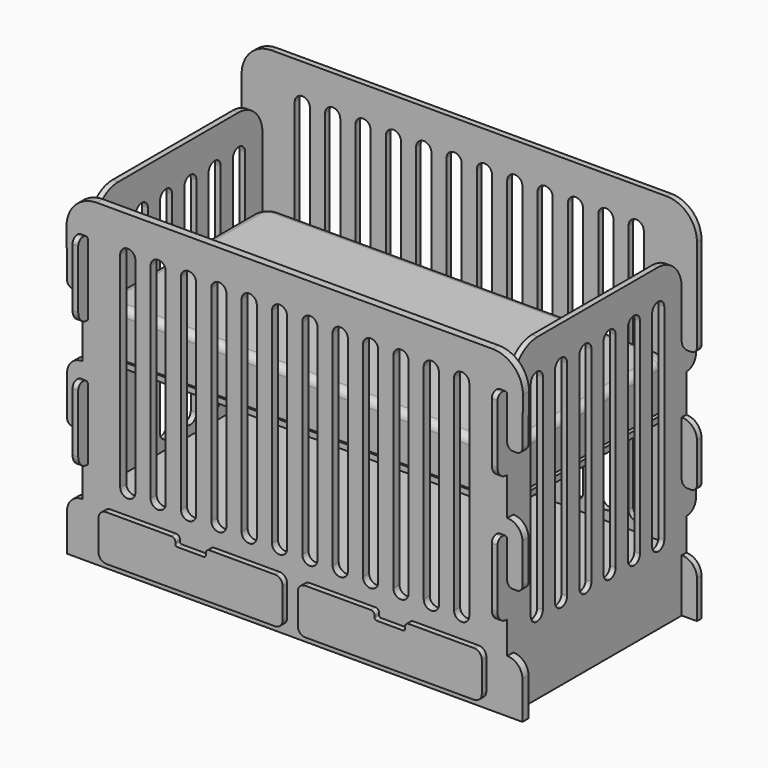
from build123d import *

# Parameters (mm, degrees)
F1_DEPTH  = 19.05
F3_DEPTH  = 19.051
F5_DEPTH  = 19.051
F7_DEPTH  = 19.05
F10_DEPTH = 25.4
F12_DEPTH = 152.4
F14_DEPTH = 19.05
F17_DEPTH = 1475.032477
F18_W     = 1422.4
F18_H     = 19.05
F19_DEPTH = 749.3
F20_W     = 1384.3
F20_H     = 19.05
F21_DEPTH = 704.85
F23_DEPTH = 25.4
F25_DEPTH = 152.4
F26_R     = 25.4
F28_DEPTH = 19.05


with BuildPart() as f1:
    # F0 (on Front) → F1 (new body)
    with BuildSketch(Plane.XZ):
        with BuildLine():
            Line((660.4, 304.8), (-660.4, 304.8))
            ThreePointArc((-660.4, 304.8), (-732.242049, 275.042049), (-762, 203.2))
            Line((-762, 203.2), (-762, -914.4))
            Line((-762, -914.4), (762, -914.4))
            Line((762, -914.4), (762, 203.2))
            ThreePointArc((762, 203.2), (732.242049, 275.042049), (660.4, 304.8))
        make_face()
    extrude(amount=F1_DEPTH)

    # F2 (on face) → F3 (cut, through all)
    with BuildSketch(Plane.XZ.offset(19.05)):
        with BuildLine():
            Line((-730.25, -127), (-742.95, -127))
            ThreePointArc((-742.95, -127), (-756.420384, -121.420384), (-762, -107.95))
            Line((-762, -107.95), (-762, -50.8))
            Line((-762, -50.8), (-838.2, -50.8))
            Line((-838.2, -50.8), (-838.2, -431.8))
            Line((-838.2, -431.8), (-762, -431.8))
            Line((-762, -431.8), (-762, -381))
            ThreePointArc((-762, -381), (-747.121024, -345.078976), (-711.2, -330.2))
            Line((-711.2, -330.2), (-692.15, -330.2))
            Line((-692.15, -330.2), (-692.15, -50.8))
            Line((-692.15, -50.8), (-711.2, -50.8))
            Line((-711.2, -50.8), (-711.2, -107.95))
            ThreePointArc((-711.2, -107.95), (-716.779616, -121.420384), (-730.25, -127))
        make_face()
        with BuildLine():
            Line((-711.2, -457.2), (-711.2, -514.35))
            ThreePointArc((-711.2, -514.35), (-716.779616, -527.820384), (-730.25, -533.4))
            Line((-730.25, -533.4), (-742.95, -533.4))
            ThreePointArc((-742.95, -533.4), (-756.420384, -527.820384), (-762, -514.35))
            Line((-762, -514.35), (-762, -457.2))
            Line((-762, -457.2), (-838.2, -457.2))
            Line((-838.2, -457.2), (-838.2, -838.2))
            Line((-838.2, -838.2), (-762, -838.2))
            Line((-762, -838.2), (-762, -787.4))
            ThreePointArc((-762, -787.4), (-747.121024, -751.478976), (-711.2, -736.6))
            Line((-711.2, -736.6), (-692.15, -736.6))
            Line((-692.15, -736.6), (-692.15, -457.2))
            Line((-692.15, -457.2), (-711.2, -457.2))
        make_face()
        with BuildLine():
            ThreePointArc((762, -107.95), (756.420384, -121.420384), (742.95, -127))
            Line((742.95, -127), (730.25, -127))
            ThreePointArc((730.25, -127), (716.779616, -121.420384), (711.2, -107.95))
            Line((711.2, -107.95), (711.2, -50.8))
            Line((711.2, -50.8), (692.15, -50.8))
            Line((692.15, -50.8), (692.15, -330.2))
            Line((692.15, -330.2), (711.2, -330.2))
            ThreePointArc((711.2, -330.2), (747.121024, -345.078976), (762, -381))
            Line((762, -381), (762, -431.8))
            Line((762, -431.8), (838.2, -431.8))
            Line((838.2, -431.8), (838.2, -50.8))
            Line((838.2, -50.8), (762, -50.8))
            Line((762, -50.8), (762, -107.95))
        make_face()
        with BuildLine():
            Line((692.15, -457.2), (692.15, -736.6))
            Line((692.15, -736.6), (711.2, -736.6))
            ThreePointArc((711.2, -736.6), (747.121024, -751.478976), (762, -787.4))
            Line((762, -787.4), (762, -838.2))
            Line((762, -838.2), (838.2, -838.2))
            Line((838.2, -838.2), (838.2, -457.2))
            Line((838.2, -457.2), (762, -457.2))
            Line((762, -457.2), (762, -514.35))
            ThreePointArc((762, -514.35), (756.420384, -527.820384), (742.95, -533.4))
            Line((742.95, -533.4), (730.25, -533.4))
            ThreePointArc((730.25, -533.4), (716.779616, -527.820384), (711.2, -514.35))
            Line((711.2, -514.35), (711.2, -457.2))
            Line((711.2, -457.2), (692.15, -457.2))
        make_face()
    extrude(amount=-F3_DEPTH, mode=Mode.SUBTRACT)

    # F4 (on face) → F5 (cut, through all)
    with BuildSketch(Plane.XZ.offset(19.05)):
        with BuildLine():
            ThreePointArc((-50.8, 203.2), (-68.760512, 195.760512), (-76.2, 177.8))
            Line((-76.2, 177.8), (-76.2, -660.4))
            ThreePointArc((-76.2, -660.4), (-68.760512, -678.360512), (-50.8, -685.8))
            ThreePointArc((-50.8, -685.8), (-32.839488, -678.360512), (-25.4, -660.4))
            Line((-25.4, -660.4), (-25.4, 177.8))
            ThreePointArc((-25.4, 177.8), (-32.839488, 195.760512), (-50.8, 203.2))
        make_face()
        with BuildLine():
            ThreePointArc((-152.4, 203.2), (-170.360512, 195.760512), (-177.8, 177.8))
            Line((-177.8, 177.8), (-177.8, -660.4))
            ThreePointArc((-177.8, -660.4), (-170.360512, -678.360512), (-152.4, -685.8))
            ThreePointArc((-152.4, -685.8), (-134.439488, -678.360512), (-127, -660.4))
            Line((-127, -660.4), (-127, 177.8))
            ThreePointArc((-127, 177.8), (-134.439488, 195.760512), (-152.4, 203.2))
        make_face()
        with BuildLine():
            ThreePointArc((-254, 203.2), (-271.960512, 195.760512), (-279.4, 177.8))
            Line((-279.4, 177.8), (-279.4, -660.4))
            ThreePointArc((-279.4, -660.4), (-271.960512, -678.360512), (-254, -685.8))
            ThreePointArc((-254, -685.8), (-236.039488, -678.360512), (-228.6, -660.4))
            Line((-228.6, -660.4), (-228.6, 177.8))
            ThreePointArc((-228.6, 177.8), (-236.039488, 195.760512), (-254, 203.2))
        make_face()
        with BuildLine():
            ThreePointArc((-355.6, 203.2), (-373.560512, 195.760512), (-381, 177.8))
            Line((-381, 177.8), (-381, -660.4))
            ThreePointArc((-381, -660.4), (-373.560512, -678.360512), (-355.6, -685.8))
            ThreePointArc((-355.6, -685.8), (-337.639488, -678.360512), (-330.2, -660.4))
            Line((-330.2, -660.4), (-330.2, 177.8))
            ThreePointArc((-330.2, 177.8), (-337.639488, 195.760512), (-355.6, 203.2))
        make_face()
        with BuildLine():
            ThreePointArc((-457.2, 203.2), (-475.160512, 195.760512), (-482.6, 177.8))
            Line((-482.6, 177.8), (-482.6, -660.4))
            ThreePointArc((-482.6, -660.4), (-475.160512, -678.360512), (-457.2, -685.8))
            ThreePointArc((-457.2, -685.8), (-439.239488, -678.360512), (-431.8, -660.4))
            Line((-431.8, -660.4), (-431.8, 177.8))
            ThreePointArc((-431.8, 177.8), (-439.239488, 195.760512), (-457.2, 203.2))
        make_face()
        with BuildLine():
            ThreePointArc((-558.8, 203.2), (-576.760512, 195.760512), (-584.2, 177.8))
            Line((-584.2, 177.8), (-584.2, -660.4))
            ThreePointArc((-584.2, -660.4), (-576.760512, -678.360512), (-558.8, -685.8))
            ThreePointArc((-558.8, -685.8), (-540.839488, -678.360512), (-533.4, -660.4))
            Line((-533.4, -660.4), (-533.4, 177.8))
            ThreePointArc((-533.4, 177.8), (-540.839488, 195.760512), (-558.8, 203.2))
        make_face()
        with BuildLine():
            ThreePointArc((127, -660.4), (134.439488, -678.360512), (152.4, -685.8))
            ThreePointArc((152.4, -685.8), (170.360512, -678.360512), (177.8, -660.4))
            Line((177.8, -660.4), (177.8, 177.8))
            ThreePointArc((177.8, 177.8), (170.360512, 195.760512), (152.4, 203.2))
            ThreePointArc((152.4, 203.2), (134.439488, 195.760512), (127, 177.8))
            Line((127, 177.8), (127, -660.4))
        make_face()
        with BuildLine():
            ThreePointArc((482.6, 177.8), (475.160512, 195.760512), (457.2, 203.2))
            ThreePointArc((457.2, 203.2), (439.239488, 195.760512), (431.8, 177.8))
            Line((431.8, 177.8), (431.8, -660.4))
            ThreePointArc((431.8, -660.4), (439.239488, -678.360512), (457.2, -685.8))
            ThreePointArc((457.2, -685.8), (475.160512, -678.360512), (482.6, -660.4))
            Line((482.6, -660.4), (482.6, 177.8))
        make_face()
        with BuildLine():
            ThreePointArc((254, -685.8), (271.960512, -678.360512), (279.4, -660.4))
            Line((279.4, -660.4), (279.4, 177.8))
            ThreePointArc((279.4, 177.8), (271.960512, 195.760512), (254, 203.2))
            ThreePointArc((254, 203.2), (236.039488, 195.760512), (228.6, 177.8))
            Line((228.6, 177.8), (228.6, -660.4))
            ThreePointArc((228.6, -660.4), (236.039488, -678.360512), (254, -685.8))
        make_face()
        with BuildLine():
            ThreePointArc((558.8, 203.2), (540.839488, 195.760512), (533.4, 177.8))
            Line((533.4, 177.8), (533.4, -660.4))
            ThreePointArc((533.4, -660.4), (540.839488, -678.360512), (558.8, -685.8))
            ThreePointArc((558.8, -685.8), (576.760512, -678.360512), (584.2, -660.4))
            Line((584.2, -660.4), (584.2, 177.8))
            ThreePointArc((584.2, 177.8), (576.760512, 195.760512), (558.8, 203.2))
        make_face()
        with BuildLine():
            ThreePointArc((355.6, 203.2), (337.639488, 195.760512), (330.2, 177.8))
            Line((330.2, 177.8), (330.2, -660.4))
            ThreePointArc((330.2, -660.4), (337.639488, -678.360512), (355.6, -685.8))
            ThreePointArc((355.6, -685.8), (373.560512, -678.360512), (381, -660.4))
            Line((381, -660.4), (381, 177.8))
            ThreePointArc((381, 177.8), (373.560512, 195.760512), (355.6, 203.2))
        make_face()
        with BuildLine():
            ThreePointArc((25.4, -660.4), (32.839488, -678.360512), (50.8, -685.8))
            ThreePointArc((50.8, -685.8), (68.760512, -678.360512), (76.2, -660.4))
            Line((76.2, -660.4), (76.2, 177.8))
            ThreePointArc((76.2, 177.8), (68.760512, 195.760512), (50.8, 203.2))
            ThreePointArc((50.8, 203.2), (32.839488, 195.760512), (25.4, 177.8))
            Line((25.4, 177.8), (25.4, -660.4))
        make_face()
    extrude(amount=-F5_DEPTH, mode=Mode.SUBTRACT)

    # F6 (on face) → F7 (join)
    with BuildSketch(Plane(origin=(-692.15, 0, 0), x_dir=(0, -1, 0), z_dir=(-1, 0, 0))):
        with BuildLine():
            Line((0, -628.890028), (0, -914.4))
            Line((0, -914.4), (749.3, -914.4))
            Line((749.3, -914.4), (749.3, -628.890028))
            Line((749.3, -628.890028), (751.84, -628.890028))
            ThreePointArc((751.84, -628.890028), (778.780768, -617.730797), (789.94, -590.790028))
            Line((789.94, -590.790028), (789.94, -393.940028))
            ThreePointArc((789.94, -393.940028), (784.360384, -380.469644), (770.89, -374.890028))
            Line((770.89, -374.890028), (768.35, -374.890028))
            ThreePointArc((768.35, -374.890028), (754.879616, -380.469644), (749.3, -393.940028))
            Line((749.3, -393.940028), (749.3, -203.2))
            Line((749.3, -203.2), (751.84, -203.2))
            ThreePointArc((751.84, -203.2), (778.780768, -192.040768), (789.94, -165.1))
            Line((789.94, -165.1), (789.94, 31.75))
            ThreePointArc((789.94, 31.75), (784.360384, 45.220384), (770.89, 50.8))
            Line((770.89, 50.8), (768.35, 50.8))
            ThreePointArc((768.35, 50.8), (754.879616, 45.220384), (749.3, 31.75))
            Line((749.3, 31.75), (749.3, 0))
            Line((749.3, 0), (0, 0))
            Line((0, 0), (0, 31.75))
            ThreePointArc((0, 31.75), (-5.579616, 45.220384), (-19.05, 50.8))
            Line((-19.05, 50.8), (-21.59, 50.8))
            ThreePointArc((-21.59, 50.8), (-35.060384, 45.220384), (-40.64, 31.75))
            Line((-40.64, 31.75), (-40.64, -165.1))
            ThreePointArc((-40.64, -165.1), (-29.480768, -192.040768), (-2.54, -203.2))
            Line((-2.54, -203.2), (0, -203.2))
            Line((0, -203.2), (0, -393.940028))
            ThreePointArc((0, -393.940028), (-5.579616, -380.469644), (-19.05, -374.890028))
            Line((-19.05, -374.890028), (-21.59, -374.890028))
            ThreePointArc((-21.59, -374.890028), (-35.060384, -380.469644), (-40.64, -393.940028))
            Line((-40.64, -393.940028), (-40.64, -590.790028))
            ThreePointArc((-40.64, -590.790028), (-29.480768, -617.730797), (-2.54, -628.890028))
            Line((-2.54, -628.890028), (0, -628.890028))
        make_face()
    extrude(amount=F7_DEPTH)

    # F8: F1 across plane


with BuildPart() as f1_1:
    add(f1.part)
    add(f1.part.mirror(Plane.YZ))

    # F9 (on face) → F10 (join)
    with BuildSketch(Plane.XZ.offset(749.3)):
        with BuildLine():
            Line((-742.95, -127), (-730.25, -127))
            ThreePointArc((-730.25, -127), (-716.779616, -121.420384), (-711.2, -107.95))
            Line((-711.2, -107.95), (-711.2, -330.2))
            ThreePointArc((-711.2, -330.2), (-747.121024, -345.078976), (-762, -381))
            Line((-762, -381), (-762, -514.35))
            ThreePointArc((-762, -514.35), (-756.420384, -527.820384), (-742.95, -533.4))
            Line((-742.95, -533.4), (-730.25, -533.4))
            ThreePointArc((-730.25, -533.4), (-716.779616, -527.820384), (-711.2, -514.35))
            Line((-711.2, -514.35), (-711.2, -736.6))
            ThreePointArc((-711.2, -736.6), (-747.121024, -751.478976), (-762, -787.4))
            Line((-762, -787.4), (-762, -914.4))
            Line((-762, -914.4), (-711.2, -914.4))
            Line((-711.2, -914.4), (-692.15, -914.4))
            Line((-692.15, -914.4), (692.15, -914.4))
            Line((692.15, -914.4), (711.2, -914.4))
            Line((711.2, -914.4), (762, -914.4))
            Line((762, -914.4), (762, -787.4))
            ThreePointArc((762, -787.4), (747.121024, -751.478976), (711.2, -736.6))
            Line((711.2, -736.6), (711.2, -514.35))
            ThreePointArc((711.2, -514.35), (716.779616, -527.820384), (730.25, -533.4))
            Line((730.25, -533.4), (742.95, -533.4))
            ThreePointArc((742.95, -533.4), (756.420384, -527.820384), (762, -514.35))
            Line((762, -514.35), (762, -381))
            ThreePointArc((762, -381), (747.121024, -345.078976), (711.2, -330.2))
            Line((711.2, -330.2), (711.2, -107.95))
            ThreePointArc((711.2, -107.95), (716.779616, -121.420384), (730.25, -127))
            Line((730.25, -127), (742.95, -127))
            ThreePointArc((742.95, -127), (756.420384, -121.420384), (762, -107.95))
            Line((762, -107.95), (763.824665, 49.623574))
            ThreePointArc((763.824665, 49.623574), (734.488258, 122.224909), (662.231477, 152.4))
            Line((662.231477, 152.4), (-660.4, 152.4))
            ThreePointArc((-660.4, 152.4), (-732.242049, 122.642049), (-762, 50.8))
            Line((-762, 50.8), (-762, -107.95))
            ThreePointArc((-762, -107.95), (-756.420384, -121.420384), (-742.95, -127))
        make_face()
    extrude(amount=-F10_DEPTH)

    # F11 (on face) → F12 (cut)
    with BuildSketch(Plane.XZ.offset(749.3)):
        with BuildLine():
            ThreePointArc((-558.8, 50.8), (-576.760512, 43.360512), (-584.2, 25.4))
            Line((-584.2, 25.4), (-584.2, -660.4))
            ThreePointArc((-584.2, -660.4), (-558.8, -685.8), (-533.4, -660.4))
            Line((-533.4, -660.4), (-533.4, 25.4))
            ThreePointArc((-533.4, 25.4), (-540.839488, 43.360512), (-558.8, 50.8))
        make_face()
        with BuildLine():
            Line((-431.8, -660.4), (-431.8, 25.4))
            ThreePointArc((-431.8, 25.4), (-439.239488, 43.360512), (-457.2, 50.8))
            ThreePointArc((-457.2, 50.8), (-475.160512, 43.360512), (-482.6, 25.4))
            Line((-482.6, 25.4), (-482.6, -660.4))
            ThreePointArc((-482.6, -660.4), (-457.2, -685.8), (-431.8, -660.4))
        make_face()
        with BuildLine():
            Line((-330.2, -660.4), (-330.2, 25.4))
            ThreePointArc((-330.2, 25.4), (-337.639488, 43.360512), (-355.6, 50.8))
            ThreePointArc((-355.6, 50.8), (-373.560512, 43.360512), (-381, 25.4))
            Line((-381, 25.4), (-381, -660.4))
            ThreePointArc((-381, -660.4), (-355.6, -685.8), (-330.2, -660.4))
        make_face()
        with BuildLine():
            Line((-228.6, -660.4), (-228.6, 25.4))
            ThreePointArc((-228.6, 25.4), (-236.039488, 43.360512), (-254, 50.8))
            ThreePointArc((-254, 50.8), (-271.960512, 43.360512), (-279.4, 25.4))
            Line((-279.4, 25.4), (-279.4, -660.4))
            ThreePointArc((-279.4, -660.4), (-254, -685.8), (-228.6, -660.4))
        make_face()
        with BuildLine():
            Line((-127, -660.4), (-127, 25.4))
            ThreePointArc((-127, 25.4), (-134.439488, 43.360512), (-152.4, 50.8))
            ThreePointArc((-152.4, 50.8), (-170.360512, 43.360512), (-177.8, 25.4))
            Line((-177.8, 25.4), (-177.8, -660.4))
            ThreePointArc((-177.8, -660.4), (-152.4, -685.8), (-127, -660.4))
        make_face()
        with BuildLine():
            Line((-25.4, -660.4), (-25.4, 25.4))
            ThreePointArc((-25.4, 25.4), (-32.839488, 43.360512), (-50.8, 50.8))
            ThreePointArc((-50.8, 50.8), (-68.760512, 43.360512), (-76.2, 25.4))
            Line((-76.2, 25.4), (-76.2, -660.4))
            ThreePointArc((-76.2, -660.4), (-50.8, -685.8), (-25.4, -660.4))
        make_face()
        with BuildLine():
            Line((76.2, -660.4), (76.2, 25.4))
            ThreePointArc((76.2, 25.4), (68.760512, 43.360512), (50.8, 50.8))
            ThreePointArc((50.8, 50.8), (32.839488, 43.360512), (25.4, 25.4))
            Line((25.4, 25.4), (25.4, -660.4))
            ThreePointArc((25.4, -660.4), (50.8, -685.8), (76.2, -660.4))
        make_face()
        with BuildLine():
            Line((177.8, -660.4), (177.8, 25.4))
            ThreePointArc((177.8, 25.4), (170.360512, 43.360512), (152.4, 50.8))
            ThreePointArc((152.4, 50.8), (134.439488, 43.360512), (127, 25.4))
            Line((127, 25.4), (127, -660.4))
            ThreePointArc((127, -660.4), (152.4, -685.8), (177.8, -660.4))
        make_face()
        with BuildLine():
            Line((279.4, -660.4), (279.4, 25.4))
            ThreePointArc((279.4, 25.4), (271.960512, 43.360512), (254, 50.8))
            ThreePointArc((254, 50.8), (236.039488, 43.360512), (228.6, 25.4))
            Line((228.6, 25.4), (228.6, -660.4))
            ThreePointArc((228.6, -660.4), (254, -685.8), (279.4, -660.4))
        make_face()
        with BuildLine():
            Line((381, -660.4), (381, 25.4))
            ThreePointArc((381, 25.4), (373.560512, 43.360512), (355.6, 50.8))
            ThreePointArc((355.6, 50.8), (337.639488, 43.360512), (330.2, 25.4))
            Line((330.2, 25.4), (330.2, -660.4))
            ThreePointArc((330.2, -660.4), (355.6, -685.8), (381, -660.4))
        make_face()
        with BuildLine():
            Line((482.6, -660.4), (482.6, 25.4))
            ThreePointArc((482.6, 25.4), (475.160512, 43.360512), (457.2, 50.8))
            ThreePointArc((457.2, 50.8), (439.239488, 43.360512), (431.8, 25.4))
            Line((431.8, 25.4), (431.8, -660.4))
            ThreePointArc((431.8, -660.4), (457.2, -685.8), (482.6, -660.4))
        make_face()
        with BuildLine():
            Line((584.2, -660.4), (584.2, 25.4))
            ThreePointArc((584.2, 25.4), (576.760512, 43.360512), (558.8, 50.8))
            ThreePointArc((558.8, 50.8), (540.839488, 43.360512), (533.4, 25.4))
            Line((533.4, 25.4), (533.4, -660.4))
            ThreePointArc((533.4, -660.4), (558.8, -685.8), (584.2, -660.4))
        make_face()
    extrude(amount=-F12_DEPTH, mode=Mode.SUBTRACT)

    # F13 (on face) → F14 (join, through all)
    with BuildSketch(Plane(origin=(-711.2, 0, 0), x_dir=(0, -1, 0), z_dir=(-1, 0, 0))):
        with BuildLine():
            Line((19.05, 50.8), (19.05, 0))
            Line((19.05, 0), (723.9, 0))
            Line((723.9, 0), (723.9, 50.8))
            ThreePointArc((723.9, 50.8), (694.142049, 122.642049), (622.3, 152.4))
            Line((622.3, 152.4), (120.65, 152.4))
            ThreePointArc((120.65, 152.4), (48.807951, 122.642049), (19.05, 50.8))
        make_face()
    extrude(amount=-F14_DEPTH)

    # F15: F1 across plane


with BuildPart() as f1_2:
    add(f1_1.part)
    add(f1_1.part.mirror(Plane.YZ))

    # F16 (on face) → F17 (cut, through all)
    with BuildSketch(Plane(origin=(-711.2, 0, 0), x_dir=(0, -1, 0), z_dir=(-1, 0, 0))):
        with BuildLine():
            Line((346.075, -660.4), (346.075, 25.4))
            ThreePointArc((346.075, 25.4), (338.635512, 43.360512), (320.675, 50.8))
            ThreePointArc((320.675, 50.8), (302.714488, 43.360512), (295.275, 25.4))
            Line((295.275, 25.4), (295.275, -660.4))
            ThreePointArc((295.275, -660.4), (302.714488, -678.360512), (320.675, -685.8))
            ThreePointArc((320.675, -685.8), (338.635512, -678.360512), (346.075, -660.4))
        make_face()
        with BuildLine():
            ThreePointArc((219.075, 50.8), (201.114488, 43.360512), (193.675, 25.4))
            Line((193.675, 25.4), (193.675, -660.4))
            ThreePointArc((193.675, -660.4), (201.114488, -678.360512), (219.075, -685.8))
            ThreePointArc((219.075, -685.8), (237.035512, -678.360512), (244.475, -660.4))
            Line((244.475, -660.4), (244.475, 25.4))
            ThreePointArc((244.475, 25.4), (237.035512, 43.360512), (219.075, 50.8))
        make_face()
        with BuildLine():
            ThreePointArc((117.475, 50.8), (99.514488, 43.360512), (92.075, 25.4))
            Line((92.075, 25.4), (92.075, -660.4))
            ThreePointArc((92.075, -660.4), (99.514488, -678.360512), (117.475, -685.8))
            ThreePointArc((117.475, -685.8), (135.435512, -678.360512), (142.875, -660.4))
            Line((142.875, -660.4), (142.875, 25.4))
            ThreePointArc((142.875, 25.4), (135.435512, 43.360512), (117.475, 50.8))
        make_face()
        with BuildLine():
            ThreePointArc((625.475, 50.8), (607.514488, 43.360512), (600.075, 25.4))
            Line((600.075, 25.4), (600.075, -660.4))
            ThreePointArc((600.075, -660.4), (607.514488, -678.360512), (625.475, -685.8))
            ThreePointArc((625.475, -685.8), (643.435512, -678.360512), (650.875, -660.4))
            Line((650.875, -660.4), (650.875, 25.4))
            ThreePointArc((650.875, 25.4), (643.435512, 43.360512), (625.475, 50.8))
        make_face()
        with BuildLine():
            ThreePointArc((422.275, 50.8), (404.314488, 43.360512), (396.875, 25.4))
            Line((396.875, 25.4), (396.875, -660.4))
            ThreePointArc((396.875, -660.4), (404.314488, -678.360512), (422.275, -685.8))
            ThreePointArc((422.275, -685.8), (440.235512, -678.360512), (447.675, -660.4))
            Line((447.675, -660.4), (447.675, 25.4))
            ThreePointArc((447.675, 25.4), (440.235512, 43.360512), (422.275, 50.8))
        make_face()
        with BuildLine():
            ThreePointArc((549.275, 25.4), (541.835512, 43.360512), (523.875, 50.8))
            ThreePointArc((523.875, 50.8), (505.914488, 43.360512), (498.475, 25.4))
            Line((498.475, 25.4), (498.475, -660.4))
            ThreePointArc((498.475, -660.4), (505.914488, -678.360512), (523.875, -685.8))
            ThreePointArc((523.875, -685.8), (541.835512, -678.360512), (549.275, -660.4))
            Line((549.275, -660.4), (549.275, 25.4))
        make_face()
    extrude(amount=-F17_DEPTH, mode=Mode.SUBTRACT)

    # F18 (on face) → F19 (join, through all)
    with BuildSketch(Plane.XZ.offset(749.3)):
        with Locations((0, -727.075)):
            Rectangle(F18_W, F18_H)
    extrude(amount=-F19_DEPTH)

    # F20 (on face) → F21 (join, through all)
    with BuildSketch(Plane(origin=(0, -723.9, 0), x_dir=(-1, 0, 0), z_dir=(0, 1, 0))):
        with Locations((0, -314.325)):
            Rectangle(F20_W, F20_H)
    extrude(amount=F21_DEPTH)

    # F22 (on face) → F23 (cut)
    with BuildSketch(Plane.XY.offset(-304.8)):
        with BuildLine():
            Line((-127, -371.475), (127, -371.475))
            ThreePointArc((127, -371.475), (144.960512, -364.035512), (152.4, -346.075))
            ThreePointArc((152.4, -346.075), (144.960512, -328.114488), (127, -320.675))
            Line((127, -320.675), (-127, -320.675))
            ThreePointArc((-127, -320.675), (-144.960512, -328.114488), (-152.4, -346.075))
            ThreePointArc((-152.4, -346.075), (-144.960512, -364.035512), (-127, -371.475))
        make_face()
    extrude(amount=-F23_DEPTH, mode=Mode.SUBTRACT)

    # F27 (on face) → F28 (join)
    with BuildSketch(Plane.XZ.offset(749.3)):
        with BuildLine():
            Line((-615.95, -889), (-50.8, -889))
            ThreePointArc((-50.8, -889), (-32.839488, -881.560512), (-25.4, -863.6))
            Line((-25.4, -863.6), (-25.4, -762))
            ThreePointArc((-25.4, -762), (-32.839488, -744.039488), (-50.8, -736.6))
            Line((-50.8, -736.6), (-269.875, -736.6))
            ThreePointArc((-269.875, -736.6), (-278.855256, -740.319744), (-282.575, -749.3))
            Line((-282.575, -749.3), (-282.575, -755.65))
            ThreePointArc((-282.575, -755.65), (-284.434872, -760.140128), (-288.925, -762))
            Line((-288.925, -762), (-377.825, -762))
            ThreePointArc((-377.825, -762), (-382.315128, -760.140128), (-384.175, -755.65))
            Line((-384.175, -755.65), (-384.175, -749.3))
            ThreePointArc((-384.175, -749.3), (-387.894744, -740.319744), (-396.875, -736.6))
            Line((-396.875, -736.6), (-615.95, -736.6))
            ThreePointArc((-615.95, -736.6), (-633.910512, -744.039488), (-641.35, -762))
            Line((-641.35, -762), (-641.35, -863.6))
            ThreePointArc((-641.35, -863.6), (-633.910512, -881.560512), (-615.95, -889))
        make_face()
        with BuildLine():
            ThreePointArc((396.875, -736.6), (387.894744, -740.319744), (384.175, -749.3))
            Line((384.175, -749.3), (384.175, -755.65))
            ThreePointArc((384.175, -755.65), (382.315128, -760.140128), (377.825, -762))
            Line((377.825, -762), (288.925, -762))
            ThreePointArc((288.925, -762), (284.434872, -760.140128), (282.575, -755.65))
            Line((282.575, -755.65), (282.575, -749.3))
            ThreePointArc((282.575, -749.3), (278.855256, -740.319744), (269.875, -736.6))
            Line((269.875, -736.6), (50.8, -736.6))
            ThreePointArc((50.8, -736.6), (32.839488, -744.039488), (25.4, -762))
            Line((25.4, -762), (25.4, -863.6))
            ThreePointArc((25.4, -863.6), (32.839488, -881.560512), (50.8, -889))
            Line((50.8, -889), (615.95, -889))
            ThreePointArc((615.95, -889), (633.910512, -881.560512), (641.35, -863.6))
            Line((641.35, -863.6), (641.35, -762))
            ThreePointArc((641.35, -762), (633.910512, -744.039488), (615.95, -736.6))
            Line((615.95, -736.6), (396.875, -736.6))
        make_face()
    extrude(amount=F28_DEPTH)


with BuildPart() as f25:
    # F24 (on face) → F25 (new body)
    with BuildSketch(Plane.XY.offset(-304.8)):
        with BuildLine():
            Line((-628.878829, -717.55), (628.878829, -717.55))
            ThreePointArc((628.878829, -717.55), (664.799853, -702.671024), (679.678829, -666.75))
            Line((679.678829, -666.75), (679.678829, -76.2))
            ThreePointArc((679.678829, -76.2), (664.799853, -40.278976), (628.878829, -25.4))
            Line((628.878829, -25.4), (-628.878829, -25.4))
            ThreePointArc((-628.878829, -25.4), (-664.799853, -40.278976), (-679.678829, -76.2))
            Line((-679.678829, -76.2), (-679.678829, -666.75))
            ThreePointArc((-679.678829, -666.75), (-664.799853, -702.671024), (-628.878829, -717.55))
        make_face()
    extrude(amount=F25_DEPTH)

    # F26
    f26_edges = [f25.edges().sort_by_distance(p)[0] for p in [
        (0, -25.4, -152.4),
    ]]
    fillet(f26_edges, radius=F26_R)


solid = Compound([f1_2.part, f25.part])
